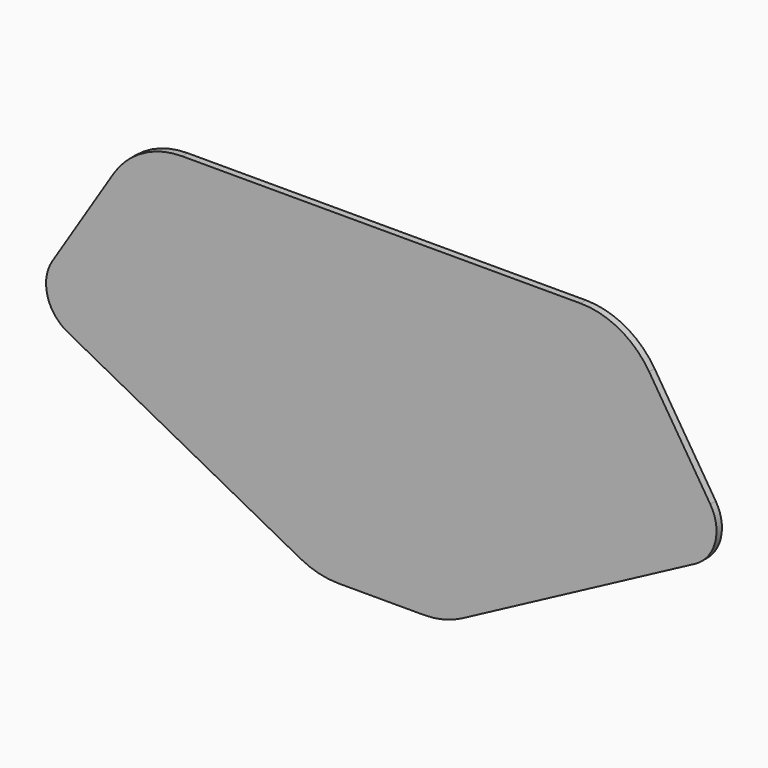
from build123d import *

# Parameters (mm, degrees)
F1_DEPTH = 12.7


with BuildPart() as f1:
    # F0 (on Front) → F1 (new body)
    with BuildSketch(Plane.XZ):
        with BuildLine():
            Line((373.228805, 321.540359), (0, 321.540359))
            Line((0, 321.540359), (-373.228805, 321.540359))
            ThreePointArc((-373.228805, 321.540359), (-446.77487, 302.619706), (-502.059262, 250.555796))
            Line((-502.059262, 250.555796), (-616.504222, 69.459962))
            ThreePointArc((-616.504222, 69.459962), (-625.738174, 9.20133), (-587.833517, -38.543886))
            Line((-587.833517, -38.543886), (-151.597384, -270.251901))
            ThreePointArc((-151.597384, -270.251901), (-116.945137, -283.540709), (-80.108337, -288.059641))
            Line((-80.108337, -288.059641), (80.108337, -288.059641))
            ThreePointArc((80.108337, -288.059641), (116.945137, -283.540709), (151.597384, -270.251901))
            Line((151.597384, -270.251901), (587.833517, -38.543886))
            ThreePointArc((587.833517, -38.543886), (625.738174, 9.20133), (616.504222, 69.459962))
            Line((616.504222, 69.459962), (502.059262, 250.555796))
            ThreePointArc((502.059262, 250.555796), (446.77487, 302.619706), (373.228805, 321.540359))
        make_face()
    extrude(amount=F1_DEPTH)


solid = f1.part
